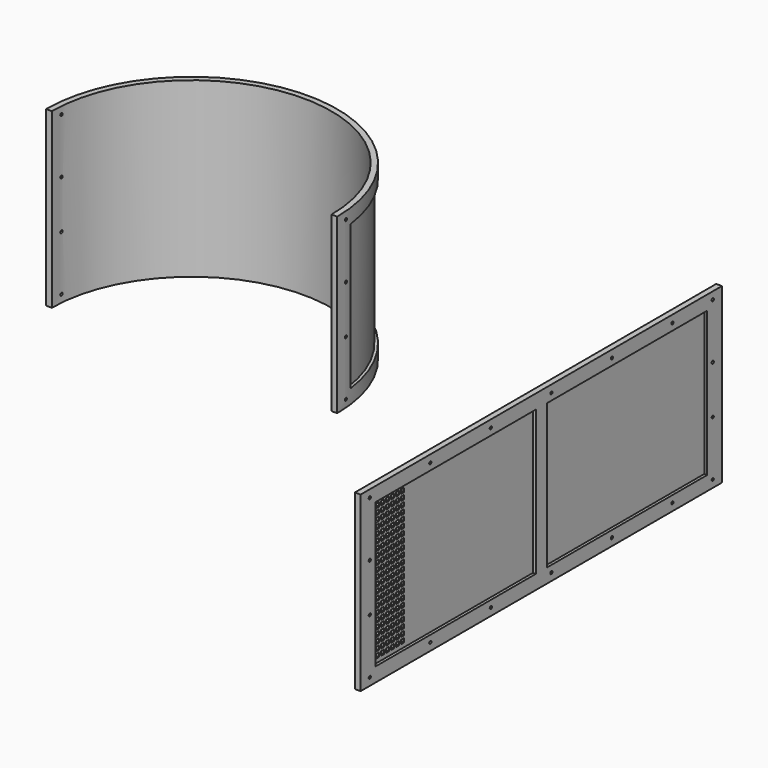
from build123d import *

# Parameters (mm, degrees)
F1_DEPTH      = 755
F4_DEPTH      = 631
F5_R          = 6
F6_DEPTH      = 635.001
F6_DEPTH_BACK = 635.001
F8_R          = 6
F9_DEPTH      = 635.0010001
F9_DEPTH_BACK = 635.0010001
F11_W         = 1970
F11_H         = 755
F11_R         = 6
F12_DEPTH     = 25
F13_W         = 875
F13_H         = 631
F14_DEPTH     = 12.5
F15_W         = 17.5
F15_H         = 17.5
F16_DEPTH     = 25


with BuildPart() as f1:
    # F0 (on Top) → F1 (new body)
    with BuildSketch(Plane.XY):
        with BuildLine():
            Line((610, 0), (635, 0))
            ThreePointArc((635, 0), (0, 635), (-635, 0))
            Line((-635, 0), (-610, 0))
            ThreePointArc((-610, 0), (0, 610), (610, 0))
        make_face()
    extrude(amount=F1_DEPTH)

    # F3 (on offset) → F4 (cut)
    with BuildSketch(Plane.XY.offset(62)):
        with BuildLine():
            Line((617.5663143539, 78.2182675296), (629.967244361, 79.7889154719))
            ThreePointArc((629.967244361, 79.7889154719), (0, 635), (-629.967244361, 79.7889154719))
            Line((-629.967244361, 79.7889154719), (-617.5663143539, 78.2182675296))
            ThreePointArc((-617.5663143539, 78.2182675296), (0, 622.5), (617.5663143539, 78.2182675296))
        make_face()
    extrude(amount=F4_DEPTH, mode=Mode.SUBTRACT)

    # F5 (on Right) → F6 (cut, two sides)
    with BuildSketch(Plane.YZ) as f6_sk:
        with Locations((50, 32.5)):
            Circle(F5_R)
        with Locations((50, 722.5)):
            Circle(F5_R)
        with Locations((50, 482.5)):
            Circle(F5_R)
        with Locations((50, 272.5)):
            Circle(F5_R)
    extrude(amount=-F6_DEPTH, mode=Mode.SUBTRACT)
    extrude(f6_sk.sketch, amount=F6_DEPTH_BACK, mode=Mode.SUBTRACT)

    # F8 (on Right) → F9 (cut, two sides)
    with BuildSketch(Plane.YZ) as f9_sk:
        with Locations((50, 32.5)):
            Circle(F8_R)
        with Locations((50, 722.5)):
            Circle(F8_R)
    extrude(amount=-F9_DEPTH, mode=Mode.SUBTRACT)
    extrude(f9_sk.sketch, amount=F9_DEPTH_BACK, mode=Mode.SUBTRACT)


with BuildPart() as f12:
    # F11 (on offset) → F12 (new body)
    with BuildSketch(Plane.YZ.offset(1500)):
        Rectangle(F11_W, F11_H)
        with Locations((-935, -345)):
            Circle(F11_R, mode=Mode.SUBTRACT)
        with Locations((-605, -345)):
            Circle(F11_R, mode=Mode.SUBTRACT)
        with Locations((-275, -345)):
            Circle(F11_R, mode=Mode.SUBTRACT)
        with Locations((-935, -105)):
            Circle(F11_R, mode=Mode.SUBTRACT)
        with Locations((55, -345)):
            Circle(F11_R, mode=Mode.SUBTRACT)
        with Locations((385, -345)):
            Circle(F11_R, mode=Mode.SUBTRACT)
        with Locations((715, -345)):
            Circle(F11_R, mode=Mode.SUBTRACT)
        with Locations((935, -345)):
            Circle(F11_R, mode=Mode.SUBTRACT)
        with Locations((935, -105)):
            Circle(F11_R, mode=Mode.SUBTRACT)
        with Locations((-935, 105)):
            Circle(F11_R, mode=Mode.SUBTRACT)
        with Locations((-935, 345)):
            Circle(F11_R, mode=Mode.SUBTRACT)
        with Locations((-605, 345)):
            Circle(F11_R, mode=Mode.SUBTRACT)
        with Locations((-275, 345)):
            Circle(F11_R, mode=Mode.SUBTRACT)
        with Locations((935, 105)):
            Circle(F11_R, mode=Mode.SUBTRACT)
        with Locations((55, 345)):
            Circle(F11_R, mode=Mode.SUBTRACT)
        with Locations((385, 345)):
            Circle(F11_R, mode=Mode.SUBTRACT)
        with Locations((715, 345)):
            Circle(F11_R, mode=Mode.SUBTRACT)
        with Locations((935, 345)):
            Circle(F11_R, mode=Mode.SUBTRACT)
    extrude(amount=F12_DEPTH)

    # F13 (on face) → F14 (cut)
    with BuildSketch(Plane.YZ.offset(1525)):
        with Locations((467.5, 0)):
            Rectangle(F13_W, F13_H)
        with Locations((-467.5, 0)):
            Rectangle(F13_W, F13_H)
    extrude(amount=-F14_DEPTH, mode=Mode.SUBTRACT)

    # F15 (on face) → F16 (cut)
    with BuildSketch(Plane.YZ.offset(1512.5)):
        with Locations((-878.25, -288.75)):
            Rectangle(F15_W, F15_H)
        Polygon((-869.5, -252.5), (-887, -252.5), (-887, -262), (-887, -270), (-869.5, -270), align=None)
        Polygon((-869.5, -225), (-887, -225), (-887, -234.5), (-887, -242.5), (-869.5, -242.5), align=None)
        Polygon((-869.5, -197.5), (-887, -197.5), (-887, -207), (-887, -215), (-869.5, -215), align=None)
        Polygon((-869.5, -170), (-887, -170), (-887, -179.5), (-887, -187.5), (-869.5, -187.5), align=None)
        Polygon((-869.5, -142.5), (-887, -142.5), (-887, -152), (-887, -160), (-869.5, -160), align=None)
        Polygon((-869.5, -115), (-887, -115), (-887, -124.5), (-887, -132.5), (-869.5, -132.5), align=None)
        Polygon((-869.5, -87.5), (-887, -87.5), (-887, -97), (-887, -105), (-869.5, -105), align=None)
        Polygon((-869.5, -60), (-887, -60), (-887, -69.5), (-887, -77.5), (-869.5, -77.5), align=None)
        Polygon((-869.5, -32.5), (-887, -32.5), (-887, -42), (-887, -50), (-869.5, -50), align=None)
        Polygon((-869.5, -5), (-887, -5), (-887, -14.5), (-887, -22.5), (-869.5, -22.5), align=None)
        Polygon((-869.5, 22.5), (-887, 22.5), (-887, 13), (-887, 5), (-869.5, 5), align=None)
        Polygon((-869.5, 50), (-887, 50), (-887, 40.5), (-887, 32.5), (-869.5, 32.5), align=None)
        Polygon((-869.5, 77.5), (-887, 77.5), (-887, 68), (-887, 60), (-869.5, 60), align=None)
        Polygon((-869.5, 105), (-887, 105), (-887, 95.5), (-887, 87.5), (-869.5, 87.5), align=None)
        Polygon((-869.5, 132.5), (-887, 132.5), (-887, 123), (-887, 115), (-869.5, 115), align=None)
        Polygon((-869.5, 160), (-887, 160), (-887, 150.5), (-887, 142.5), (-869.5, 142.5), align=None)
        Polygon((-869.5, 187.5), (-887, 187.5), (-887, 178), (-887, 170), (-869.5, 170), align=None)
        Polygon((-869.5, 215), (-887, 215), (-887, 205.5), (-887, 197.5), (-869.5, 197.5), align=None)
        Polygon((-869.5, 242.5), (-887, 242.5), (-887, 233), (-887, 225), (-869.5, 225), align=None)
        Polygon((-869.5, 270), (-887, 270), (-887, 260.5), (-887, 252.5), (-869.5, 252.5), align=None)
        Polygon((-869.5, 297.5), (-887, 297.5), (-887, 288), (-887, 280), (-869.5, 280), align=None)
        with Locations((-850.75, -288.75)):
            Rectangle(F15_W, F15_H)
        Polygon((-842, -252.5), (-859.5, -252.5), (-859.5, -262), (-859.5, -270), (-842, -270), align=None)
        Polygon((-842, -225), (-859.5, -225), (-859.5, -234.5), (-859.5, -242.5), (-842, -242.5), align=None)
        Polygon((-842, -197.5), (-859.5, -197.5), (-859.5, -207), (-859.5, -215), (-842, -215), align=None)
        Polygon((-842, -170), (-859.5, -170), (-859.5, -179.5), (-859.5, -187.5), (-842, -187.5), align=None)
        Polygon((-842, -142.5), (-859.5, -142.5), (-859.5, -152), (-859.5, -160), (-842, -160), align=None)
        Polygon((-842, -115), (-859.5, -115), (-859.5, -124.5), (-859.5, -132.5), (-842, -132.5), align=None)
        Polygon((-842, -87.5), (-859.5, -87.5), (-859.5, -97), (-859.5, -105), (-842, -105), align=None)
        Polygon((-842, -60), (-859.5, -60), (-859.5, -69.5), (-859.5, -77.5), (-842, -77.5), align=None)
        Polygon((-842, -32.5), (-859.5, -32.5), (-859.5, -42), (-859.5, -50), (-842, -50), align=None)
        Polygon((-842, -5), (-859.5, -5), (-859.5, -14.5), (-859.5, -22.5), (-842, -22.5), align=None)
        Polygon((-842, 22.5), (-859.5, 22.5), (-859.5, 13), (-859.5, 5), (-842, 5), align=None)
        Polygon((-842, 50), (-859.5, 50), (-859.5, 40.5), (-859.5, 32.5), (-842, 32.5), align=None)
        Polygon((-842, 77.5), (-859.5, 77.5), (-859.5, 68), (-859.5, 60), (-842, 60), align=None)
        Polygon((-842, 105), (-859.5, 105), (-859.5, 95.5), (-859.5, 87.5), (-842, 87.5), align=None)
        Polygon((-842, 132.5), (-859.5, 132.5), (-859.5, 123), (-859.5, 115), (-842, 115), align=None)
        Polygon((-842, 160), (-859.5, 160), (-859.5, 150.5), (-859.5, 142.5), (-842, 142.5), align=None)
        Polygon((-842, 187.5), (-859.5, 187.5), (-859.5, 178), (-859.5, 170), (-842, 170), align=None)
        Polygon((-842, 215), (-859.5, 215), (-859.5, 205.5), (-859.5, 197.5), (-842, 197.5), align=None)
        Polygon((-842, 242.5), (-859.5, 242.5), (-859.5, 233), (-859.5, 225), (-842, 225), align=None)
        Polygon((-842, 270), (-859.5, 270), (-859.5, 260.5), (-859.5, 252.5), (-842, 252.5), align=None)
        Polygon((-842, 280), (-842, 297.5), (-859.5, 297.5), (-859.5, 288), (-859.5, 280), align=None)
        with Locations((-823.25, -288.75)):
            Rectangle(F15_W, F15_H)
        Polygon((-814.5, -252.5), (-832, -252.5), (-832, -262), (-832, -270), (-814.5, -270), align=None)
        Polygon((-814.5, -225), (-832, -225), (-832, -234.5), (-832, -242.5), (-814.5, -242.5), align=None)
        Polygon((-814.5, -197.5), (-832, -197.5), (-832, -207), (-832, -215), (-814.5, -215), align=None)
        Polygon((-814.5, -170), (-832, -170), (-832, -179.5), (-832, -187.5), (-814.5, -187.5), align=None)
        Polygon((-814.5, -142.5), (-832, -142.5), (-832, -152), (-832, -160), (-814.5, -160), align=None)
        Polygon((-814.5, -115), (-832, -115), (-832, -124.5), (-832, -132.5), (-814.5, -132.5), align=None)
        Polygon((-814.5, -87.5), (-832, -87.5), (-832, -97), (-832, -105), (-814.5, -105), align=None)
        Polygon((-814.5, -60), (-832, -60), (-832, -69.5), (-832, -77.5), (-814.5, -77.5), align=None)
        Polygon((-814.5, -32.5), (-832, -32.5), (-832, -42), (-832, -50), (-814.5, -50), align=None)
        Polygon((-814.5, -5), (-832, -5), (-832, -14.5), (-832, -22.5), (-814.5, -22.5), align=None)
        Polygon((-814.5, 22.5), (-832, 22.5), (-832, 13), (-832, 5), (-814.5, 5), align=None)
        Polygon((-814.5, 50), (-832, 50), (-832, 40.5), (-832, 32.5), (-814.5, 32.5), align=None)
        Polygon((-814.5, 77.5), (-832, 77.5), (-832, 68), (-832, 60), (-814.5, 60), align=None)
        Polygon((-814.5, 105), (-832, 105), (-832, 95.5), (-832, 87.5), (-814.5, 87.5), align=None)
        Polygon((-814.5, 132.5), (-832, 132.5), (-832, 123), (-832, 115), (-814.5, 115), align=None)
        Polygon((-814.5, 160), (-832, 160), (-832, 150.5), (-832, 142.5), (-814.5, 142.5), align=None)
        Polygon((-814.5, 187.5), (-832, 187.5), (-832, 178), (-832, 170), (-814.5, 170), align=None)
        Polygon((-814.5, 215), (-832, 215), (-832, 205.5), (-832, 197.5), (-814.5, 197.5), align=None)
        Polygon((-814.5, 242.5), (-832, 242.5), (-832, 233), (-832, 225), (-814.5, 225), align=None)
        Polygon((-814.5, 270), (-832, 270), (-832, 260.5), (-832, 252.5), (-814.5, 252.5), align=None)
        Polygon((-814.5, 280), (-814.5, 297.5), (-832, 297.5), (-832, 288), (-832, 280), align=None)
        with Locations((-795.75, -288.75)):
            Rectangle(F15_W, F15_H)
        Polygon((-787, -252.5), (-804.5, -252.5), (-804.5, -262), (-804.5, -270), (-787, -270), align=None)
        Polygon((-787, -225), (-804.5, -225), (-804.5, -234.5), (-804.5, -242.5), (-787, -242.5), align=None)
        Polygon((-787, -197.5), (-804.5, -197.5), (-804.5, -207), (-804.5, -215), (-787, -215), align=None)
        Polygon((-787, -170), (-804.5, -170), (-804.5, -179.5), (-804.5, -187.5), (-787, -187.5), align=None)
        Polygon((-787, -142.5), (-804.5, -142.5), (-804.5, -152), (-804.5, -160), (-787, -160), align=None)
        Polygon((-787, -115), (-804.5, -115), (-804.5, -124.5), (-804.5, -132.5), (-787, -132.5), align=None)
        Polygon((-787, -87.5), (-804.5, -87.5), (-804.5, -97), (-804.5, -105), (-787, -105), align=None)
        Polygon((-787, -60), (-804.5, -60), (-804.5, -69.5), (-804.5, -77.5), (-787, -77.5), align=None)
        Polygon((-787, -32.5), (-804.5, -32.5), (-804.5, -42), (-804.5, -50), (-787, -50), align=None)
        Polygon((-787, -5), (-804.5, -5), (-804.5, -14.5), (-804.5, -22.5), (-787, -22.5), align=None)
        Polygon((-787, 22.5), (-804.5, 22.5), (-804.5, 13), (-804.5, 5), (-787, 5), align=None)
        Polygon((-787, 50), (-804.5, 50), (-804.5, 40.5), (-804.5, 32.5), (-787, 32.5), align=None)
        Polygon((-787, 77.5), (-804.5, 77.5), (-804.5, 68), (-804.5, 60), (-787, 60), align=None)
        Polygon((-787, 105), (-804.5, 105), (-804.5, 95.5), (-804.5, 87.5), (-787, 87.5), align=None)
        Polygon((-787, 132.5), (-804.5, 132.5), (-804.5, 123), (-804.5, 115), (-787, 115), align=None)
        Polygon((-787, 160), (-804.5, 160), (-804.5, 150.5), (-804.5, 142.5), (-787, 142.5), align=None)
        Polygon((-787, 187.5), (-804.5, 187.5), (-804.5, 178), (-804.5, 170), (-787, 170), align=None)
        Polygon((-787, 215), (-804.5, 215), (-804.5, 205.5), (-804.5, 197.5), (-787, 197.5), align=None)
        Polygon((-787, 242.5), (-804.5, 242.5), (-804.5, 233), (-804.5, 225), (-787, 225), align=None)
        Polygon((-787, 270), (-804.5, 270), (-804.5, 260.5), (-804.5, 252.5), (-787, 252.5), align=None)
        Polygon((-787, 280), (-787, 297.5), (-804.5, 297.5), (-804.5, 288), (-804.5, 280), align=None)
        with Locations((-768.25, -288.75)):
            Rectangle(F15_W, F15_H)
        Polygon((-759.5, -252.5), (-777, -252.5), (-777, -262), (-777, -270), (-759.5, -270), align=None)
        Polygon((-759.5, -225), (-777, -225), (-777, -234.5), (-777, -242.5), (-759.5, -242.5), align=None)
        Polygon((-759.5, -197.5), (-777, -197.5), (-777, -207), (-777, -215), (-759.5, -215), align=None)
        Polygon((-759.5, -170), (-777, -170), (-777, -179.5), (-777, -187.5), (-759.5, -187.5), align=None)
        Polygon((-759.5, -142.5), (-777, -142.5), (-777, -152), (-777, -160), (-759.5, -160), align=None)
        Polygon((-759.5, -115), (-777, -115), (-777, -124.5), (-777, -132.5), (-759.5, -132.5), align=None)
        Polygon((-759.5, -87.5), (-777, -87.5), (-777, -97), (-777, -105), (-759.5, -105), align=None)
        Polygon((-759.5, -60), (-777, -60), (-777, -69.5), (-777, -77.5), (-759.5, -77.5), align=None)
        Polygon((-759.5, -32.5), (-777, -32.5), (-777, -42), (-777, -50), (-759.5, -50), align=None)
        Polygon((-759.5, -5), (-777, -5), (-777, -14.5), (-777, -22.5), (-759.5, -22.5), align=None)
        Polygon((-759.5, 22.5), (-777, 22.5), (-777, 13), (-777, 5), (-759.5, 5), align=None)
        Polygon((-759.5, 50), (-777, 50), (-777, 40.5), (-777, 32.5), (-759.5, 32.5), align=None)
        Polygon((-759.5, 77.5), (-777, 77.5), (-777, 68), (-777, 60), (-759.5, 60), align=None)
        Polygon((-759.5, 105), (-777, 105), (-777, 95.5), (-777, 87.5), (-759.5, 87.5), align=None)
        Polygon((-759.5, 132.5), (-777, 132.5), (-777, 123), (-777, 115), (-759.5, 115), align=None)
        Polygon((-759.5, 160), (-777, 160), (-777, 150.5), (-777, 142.5), (-759.5, 142.5), align=None)
        Polygon((-759.5, 187.5), (-777, 187.5), (-777, 178), (-777, 170), (-759.5, 170), align=None)
        Polygon((-759.5, 215), (-777, 215), (-777, 205.5), (-777, 197.5), (-759.5, 197.5), align=None)
        Polygon((-759.5, 242.5), (-777, 242.5), (-777, 233), (-777, 225), (-759.5, 225), align=None)
        Polygon((-759.5, 270), (-777, 270), (-777, 260.5), (-777, 252.5), (-759.5, 252.5), align=None)
        Polygon((-759.5, 280), (-759.5, 297.5), (-777, 297.5), (-777, 288), (-777, 280), align=None)
        with Locations((-740.75, -288.75)):
            Rectangle(F15_W, F15_H)
        Polygon((-732, -252.5), (-749.5, -252.5), (-749.5, -262), (-749.5, -270), (-732, -270), align=None)
        Polygon((-732, -225), (-749.5, -225), (-749.5, -234.5), (-749.5, -242.5), (-732, -242.5), align=None)
        Polygon((-732, -197.5), (-749.5, -197.5), (-749.5, -207), (-749.5, -215), (-732, -215), align=None)
        Polygon((-732, -170), (-749.5, -170), (-749.5, -179.5), (-749.5, -187.5), (-732, -187.5), align=None)
        Polygon((-732, -142.5), (-749.5, -142.5), (-749.5, -152), (-749.5, -160), (-732, -160), align=None)
        Polygon((-732, -115), (-749.5, -115), (-749.5, -124.5), (-749.5, -132.5), (-732, -132.5), align=None)
        Polygon((-732, -87.5), (-749.5, -87.5), (-749.5, -97), (-749.5, -105), (-732, -105), align=None)
        Polygon((-732, -60), (-749.5, -60), (-749.5, -69.5), (-749.5, -77.5), (-732, -77.5), align=None)
        Polygon((-732, -32.5), (-749.5, -32.5), (-749.5, -42), (-749.5, -50), (-732, -50), align=None)
        Polygon((-732, -5), (-749.5, -5), (-749.5, -14.5), (-749.5, -22.5), (-732, -22.5), align=None)
        Polygon((-732, 22.5), (-749.5, 22.5), (-749.5, 13), (-749.5, 5), (-732, 5), align=None)
        Polygon((-732, 50), (-749.5, 50), (-749.5, 40.5), (-749.5, 32.5), (-732, 32.5), align=None)
        Polygon((-732, 77.5), (-749.5, 77.5), (-749.5, 68), (-749.5, 60), (-732, 60), align=None)
        Polygon((-732, 105), (-749.5, 105), (-749.5, 95.5), (-749.5, 87.5), (-732, 87.5), align=None)
        Polygon((-732, 132.5), (-749.5, 132.5), (-749.5, 123), (-749.5, 115), (-732, 115), align=None)
        Polygon((-732, 160), (-749.5, 160), (-749.5, 150.5), (-749.5, 142.5), (-732, 142.5), align=None)
        Polygon((-732, 187.5), (-749.5, 187.5), (-749.5, 178), (-749.5, 170), (-732, 170), align=None)
        Polygon((-732, 215), (-749.5, 215), (-749.5, 205.5), (-749.5, 197.5), (-732, 197.5), align=None)
        Polygon((-732, 242.5), (-749.5, 242.5), (-749.5, 233), (-749.5, 225), (-732, 225), align=None)
        Polygon((-732, 270), (-749.5, 270), (-749.5, 260.5), (-749.5, 252.5), (-732, 252.5), align=None)
        Polygon((-732, 280), (-732, 297.5), (-749.5, 297.5), (-749.5, 288), (-749.5, 280), align=None)
    extrude(amount=-F16_DEPTH, mode=Mode.SUBTRACT)


solid = Compound([f1.part, f12.part])
